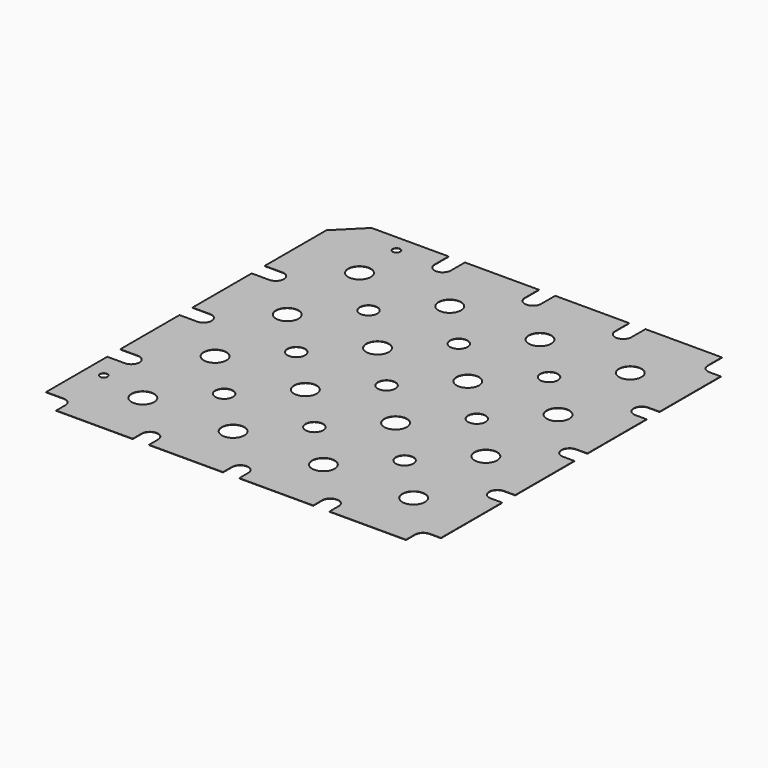
from build123d import *

# Parameters (mm, degrees)
F0_R     = 1.5
F0_R_2   = 4.5
F0_R_3   = 3.5
F1_DEPTH = 0.125


with BuildPart() as f1:
    # F0 (on Top) → F1 (new body)
    with BuildSketch(Plane.XY):
        with BuildLine():
            Line((142.75, 122.75), (142.75, 129.75))
            Line((142.75, 129.75), (112.25, 129.75))
            Line((112.25, 129.75), (112.25, 122.75))
            ThreePointArc((112.25, 122.75), (109, 119.5), (105.75, 122.75))
            Line((105.75, 122.75), (105.75, 129.75))
            Line((105.75, 129.75), (76.25, 129.75))
            Line((76.25, 129.75), (76.25, 122.75))
            ThreePointArc((76.25, 122.75), (73, 119.5), (69.75, 122.75))
            Line((69.75, 122.75), (69.75, 129.75))
            Line((69.75, 129.75), (40.25, 129.75))
            Line((40.25, 129.75), (40.25, 122.75))
            ThreePointArc((40.25, 122.75), (37, 119.5), (33.75, 122.75))
            Line((33.75, 122.75), (33.75, 129.75))
            Line((33.75, 129.75), (3, 129.75))
            Line((3, 129.75), (-7, 119.75))
            Line((-7, 119.75), (-7, 89))
            Line((-7, 89), (0, 89))
            ThreePointArc((0, 89), (3.25, 85.75), (0, 82.5))
            Line((0, 82.5), (-7, 82.5))
            Line((-7, 82.5), (-7, 53))
            Line((-7, 53), (0, 53))
            ThreePointArc((0, 53), (3.25, 49.75), (0, 46.5))
            Line((0, 46.5), (-7, 46.5))
            Line((-7, 46.5), (-7, 17))
            Line((-7, 17), (0, 17))
            ThreePointArc((0, 17), (3.25, 13.75), (0, 10.5))
            Line((0, 10.5), (-7, 10.5))
            Line((-7, 10.5), (-7, -20))
            Line((-7, -20), (0, -20))
            ThreePointArc((0, -20), (2.298097, -20.951903), (3.25, -23.25))
            Line((3.25, -23.25), (3.25, -27.75))
            Line((3.25, -27.75), (33.75, -27.75))
            Line((33.75, -27.75), (33.75, -23.25))
            ThreePointArc((33.75, -23.25), (37, -20), (40.25, -23.25))
            Line((40.25, -23.25), (40.25, -27.75))
            Line((40.25, -27.75), (69.75, -27.75))
            Line((69.75, -27.75), (69.75, -23.25))
            ThreePointArc((69.75, -23.25), (73, -20), (76.25, -23.25))
            Line((76.25, -23.25), (76.25, -27.75))
            Line((76.25, -27.75), (105.75, -27.75))
            Line((105.75, -27.75), (105.75, -23.25))
            ThreePointArc((105.75, -23.25), (109, -20), (112.25, -23.25))
            Line((112.25, -23.25), (112.25, -27.75))
            Line((112.25, -27.75), (142.75, -27.75))
            Line((142.75, -27.75), (142.75, -23.25))
            ThreePointArc((142.75, -23.25), (143.701903, -20.951903), (146, -20))
            Line((146, -20), (150.5, -20))
            Line((150.5, -20), (150.5, 10.5))
            Line((150.5, 10.5), (146, 10.5))
            ThreePointArc((146, 10.5), (142.75, 13.75), (146, 17))
            Line((146, 17), (150.5, 17))
            Line((150.5, 17), (150.5, 46.5))
            Line((150.5, 46.5), (146, 46.5))
            ThreePointArc((146, 46.5), (142.75, 49.75), (146, 53))
            Line((146, 53), (150.5, 53))
            Line((150.5, 53), (150.5, 82.5))
            Line((150.5, 82.5), (146, 82.5))
            ThreePointArc((146, 82.5), (142.75, 85.75), (146, 89))
            Line((146, 89), (150.5, 89))
            Line((150.5, 89), (150.5, 119.5))
            Line((150.5, 119.5), (146, 119.5))
            ThreePointArc((146, 119.5), (143.701903, 120.451903), (142.75, 122.75))
        make_face()
        Circle(F0_R, mode=Mode.SUBTRACT)
        with Locations((19, -4.25)):
            Circle(F0_R_2, mode=Mode.SUBTRACT)
        with Locations((55, -4.25)):
            Circle(F0_R_2, mode=Mode.SUBTRACT)
        with Locations((19, 31.75)):
            Circle(F0_R_2, mode=Mode.SUBTRACT)
        with Locations((37, 13.75)):
            Circle(F0_R_3, mode=Mode.SUBTRACT)
        with Locations((37, 49.75)):
            Circle(F0_R_3, mode=Mode.SUBTRACT)
        with Locations((55, 31.75)):
            Circle(F0_R_2, mode=Mode.SUBTRACT)
        with Locations((91, -4.25)):
            Circle(F0_R_2, mode=Mode.SUBTRACT)
        with Locations((127, -4.25)):
            Circle(F0_R_2, mode=Mode.SUBTRACT)
        with Locations((73, 13.75)):
            Circle(F0_R_3, mode=Mode.SUBTRACT)
        with Locations((109, 13.75)):
            Circle(F0_R_3, mode=Mode.SUBTRACT)
        with Locations((91, 31.75)):
            Circle(F0_R_2, mode=Mode.SUBTRACT)
        with Locations((73, 49.75)):
            Circle(F0_R_3, mode=Mode.SUBTRACT)
        with Locations((109, 49.75)):
            Circle(F0_R_3, mode=Mode.SUBTRACT)
        with Locations((127, 31.75)):
            Circle(F0_R_2, mode=Mode.SUBTRACT)
        with Locations((19, 67.75)):
            Circle(F0_R_2, mode=Mode.SUBTRACT)
        with Locations((55, 67.75)):
            Circle(F0_R_2, mode=Mode.SUBTRACT)
        with Locations((37, 85.75)):
            Circle(F0_R_3, mode=Mode.SUBTRACT)
        with Locations((19, 103.75)):
            Circle(F0_R_2, mode=Mode.SUBTRACT)
        with Locations((18.5, 122.8)):
            Circle(F0_R, mode=Mode.SUBTRACT)
        with Locations((55, 103.75)):
            Circle(F0_R_2, mode=Mode.SUBTRACT)
        with Locations((91, 67.75)):
            Circle(F0_R_2, mode=Mode.SUBTRACT)
        with Locations((73, 85.75)):
            Circle(F0_R_3, mode=Mode.SUBTRACT)
        with Locations((109, 85.75)):
            Circle(F0_R_3, mode=Mode.SUBTRACT)
        with Locations((127, 67.75)):
            Circle(F0_R_2, mode=Mode.SUBTRACT)
        with Locations((91, 103.75)):
            Circle(F0_R_2, mode=Mode.SUBTRACT)
        with Locations((127, 103.75)):
            Circle(F0_R_2, mode=Mode.SUBTRACT)
    extrude(amount=F1_DEPTH)


solid = f1.part
